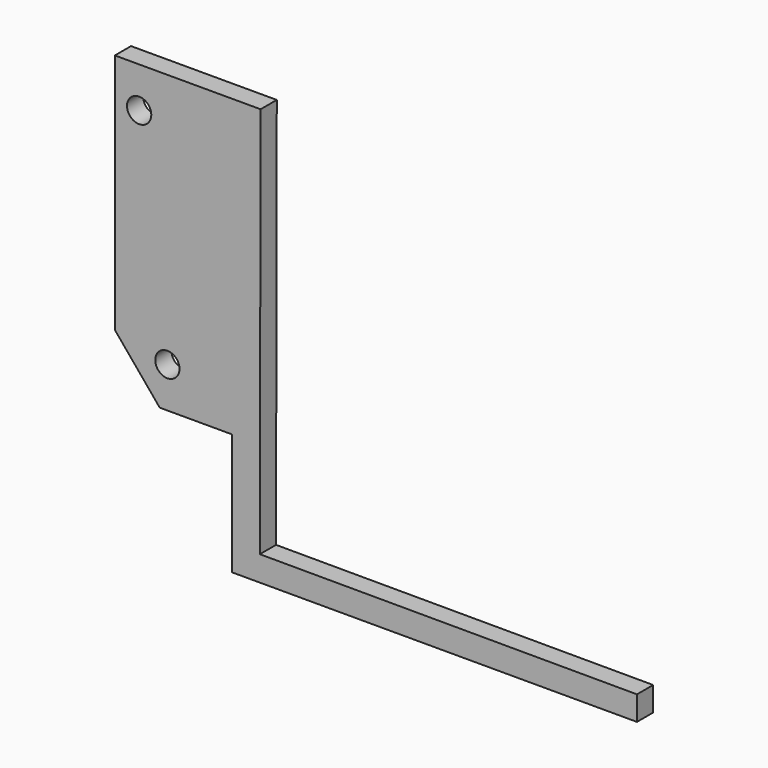
from build123d import *

# Parameters (mm, degrees)
F0_R     = 1.5
F1_DEPTH = 1.25


with BuildPart() as f1:
    # F0 (on Front) → F1 (new body, symmetric)
    with BuildSketch(Plane.XZ):
        Polygon((0, 0), (50, 0), (50, 3), (3.419785, 3.088514), (3.511779, 51.5), (-14.488221, 51.5), (-14.488221, 21.658587), (-8.945253, 15), (0, 15), align=None)
        with Locations((-8, 20)):
            Circle(F0_R, mode=Mode.SUBTRACT)
        with Locations((-11.488221, 46.5)):
            Circle(F0_R, mode=Mode.SUBTRACT)
    extrude(amount=F1_DEPTH, both=True)


solid = f1.part
